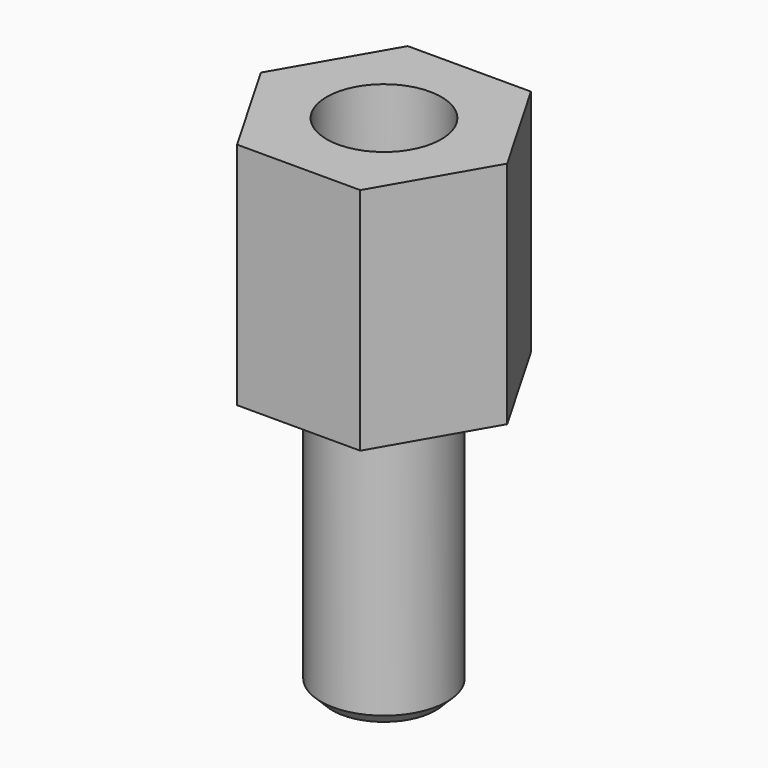
from build123d import *

# Parameters (mm, degrees)
F1_DEPTH = 5
F3_D     = 2.5
F3_DEPTH = 3
F3_TIP   = 0.7510757738
F4_R     = 1.375
F5_DEPTH = 6
F6_SIZE  = 0.25


with BuildPart() as f1:
    # F0 (on Top) → F1 (new body)
    with BuildSketch(Plane.XY):
        Polygon((1.3423393759, 2.325), (-1.3423393759, 2.325), (-2.6846787517, 0), (-1.3423393759, -2.325), (1.3423393759, -2.325), (2.6846787517, 0), align=None)
    extrude(amount=F1_DEPTH)

    # F3
    with Locations(Plane.XY.offset(5)):
        with Locations((0, 0)):
            Hole(F3_D / 2, depth=F3_DEPTH)
            with Locations((0, 0, -(F3_DEPTH + F3_TIP / 2))):  # 118° drill point
                Cone(0, F3_D / 2, F3_TIP, mode=Mode.SUBTRACT)

    # F4 (on face) → F5 (join)
    with BuildSketch(Plane(origin=(0, 0, 0), x_dir=(1, 0, 0), z_dir=(0, 0, -1))):
        Circle(F4_R)
    extrude(amount=F5_DEPTH)

    # F6
    f6_edges = [f1.edges().sort_by_distance(p)[0] for p in [
        (-1.375, 0, -6),
    ]]
    chamfer(f6_edges, length=F6_SIZE)


solid = f1.part
